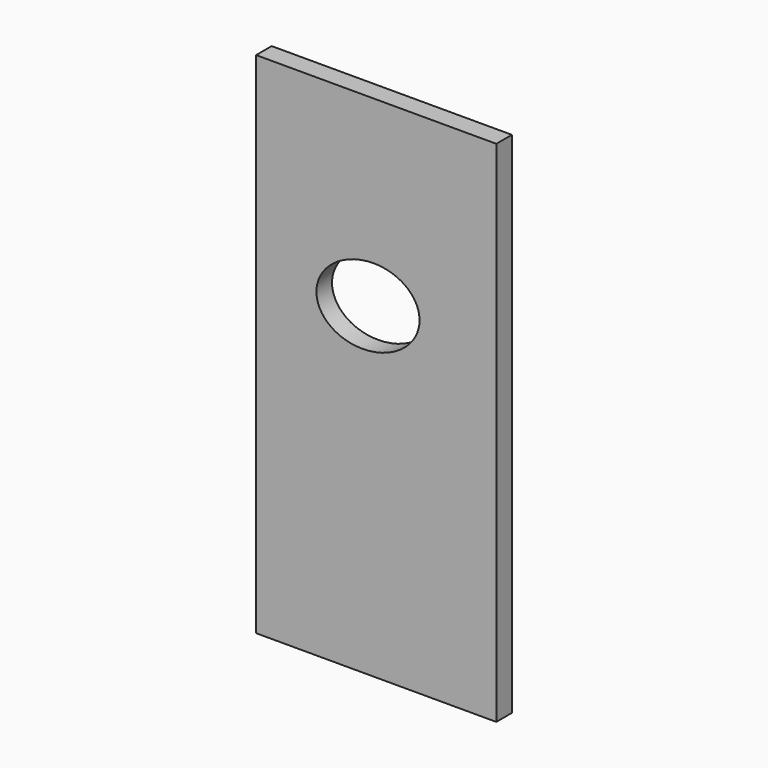
from build123d import *

# Parameters (mm, degrees)
F1_W     = 234.95
F1_H     = 497.84
F2_DEPTH = 19.05


with BuildPart() as f2:
    # F1 (on face) → F2 (new body)
    with BuildSketch(Plane.XZ):
        with Locations((-76.060367, 180.063425)):
            Rectangle(F1_W, F1_H)
        with BuildLine():
            add(Edge.make_bspline(
                [(-34.182286, 257.905787), (-46.417307, 322.752794), (-115.17867, 276.201506), (-183.940033, 229.650217), (-102.943649, 211.354499), (-21.947266, 193.058781), (-34.182286, 257.905787)],
                knots=[0, 0, 0, 2.094395, 2.094395, 4.18879, 4.18879, 6.283185, 6.283185, 6.283185], degree=2, weights=[1, 0.5, 1, 0.5, 1, 0.5, 1]))
        make_face(mode=Mode.SUBTRACT)
    extrude(amount=F2_DEPTH)


solid = f2.part
